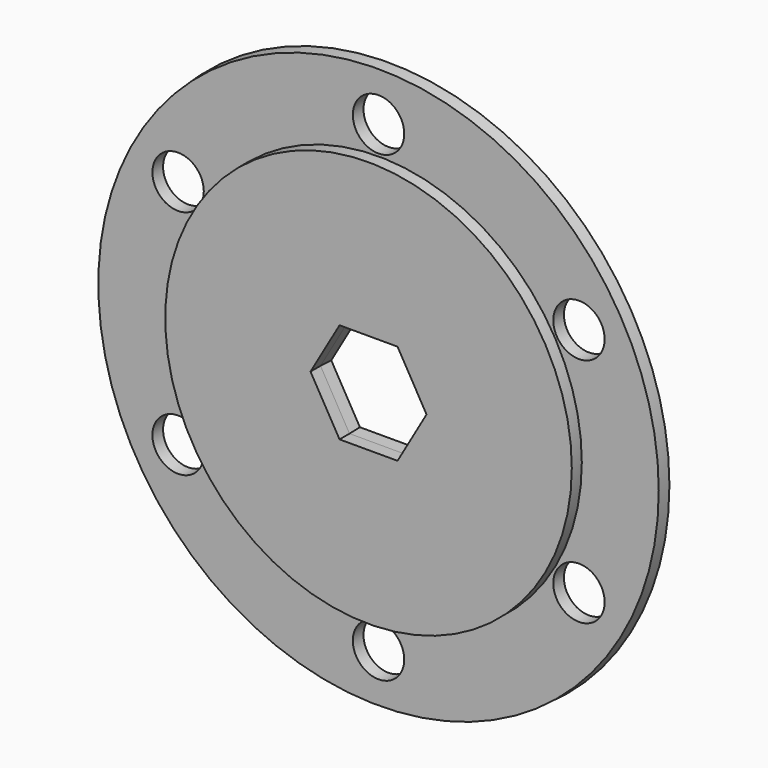
from build123d import *

# Parameters (mm, degrees)
F0_R     = 35.56
F0_R_2   = 3.2615127163
F1_DEPTH = 1.5875
F1_TAPER = -3
F2_R     = 25.79624
F3_DEPTH = 1.5875


with BuildPart() as f1:
    # F0 (on Front) → F1 (new body)
    with BuildSketch(Plane.XZ):
        Circle(F0_R)
        with Locations((0, -29.36875)):
            Circle(F0_R_2, mode=Mode.SUBTRACT)
        with Locations((-25.4340835774, -14.684375)):
            Circle(F0_R_2, mode=Mode.SUBTRACT)
        Polygon((-7.3616778124, 0), (-3.6808389062, 6.3754), (3.6808389062, 6.3754), (7.3616778124, 0), (3.6808389062, -6.3754), (-3.6808389062, -6.3754), align=None, mode=Mode.SUBTRACT)
        with Locations((25.4340835774, -14.684375)):
            Circle(F0_R_2, mode=Mode.SUBTRACT)
        with Locations((-25.4340835774, 14.684375)):
            Circle(F0_R_2, mode=Mode.SUBTRACT)
        with Locations((0, 29.36875)):
            Circle(F0_R_2, mode=Mode.SUBTRACT)
        with Locations((25.4340835774, 14.684375)):
            Circle(F0_R_2, mode=Mode.SUBTRACT)
    extrude(amount=-F1_DEPTH, taper=F1_TAPER)

    # F2 (on face) → F3 (join)
    with BuildSketch(Plane.XZ):
        Circle(F2_R)
        Polygon((-7.3616778124, 0), (-3.6808389062, 6.3754), (3.6808389062, 6.3754), (7.3616778124, 0), (3.6808389062, -6.3754), (-3.6808389062, -6.3754), align=None, mode=Mode.SUBTRACT)
    extrude(amount=F3_DEPTH)


solid = f1.part
